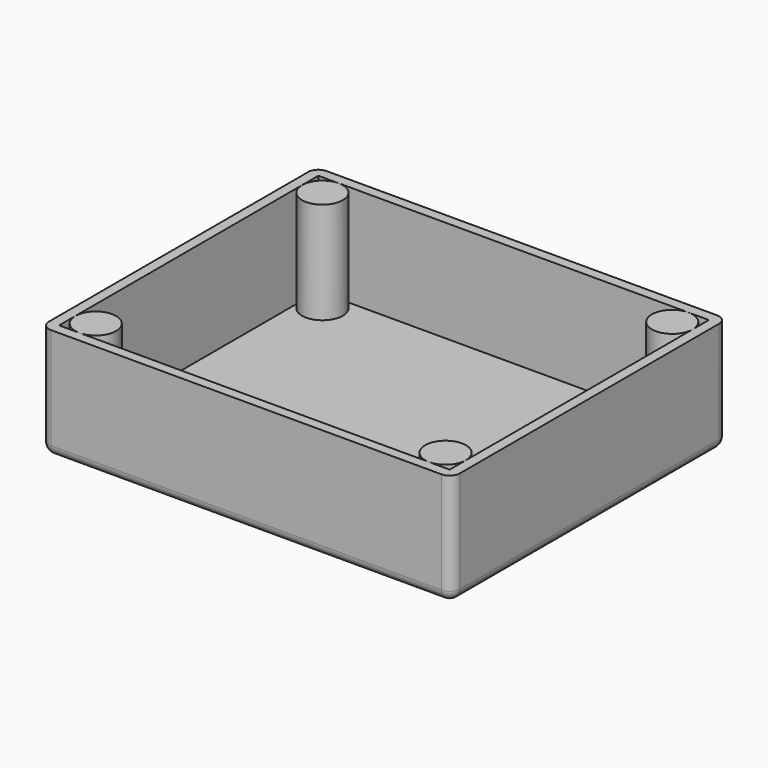
from build123d import *

# Parameters (mm, degrees)
SKETCH_W     = 38.36735
SKETCH_H     = 31.836736
PAD_DEPTH    = 10
THICKNESS_T  = 1
SKETCH001_R  = 2
PAD001_DEPTH = 10


with BuildPart() as part:
    # Sketch → Pad (new body)
    with BuildSketch(Plane.XY):
        with Locations((-0.408164, 1.632655)):
            Rectangle(SKETCH_W, SKETCH_H)
    extrude(amount=PAD_DEPTH)

    # Thickness
    thickness_openings = [part.faces().sort_by_distance(p)[0] for p in [
        (-0.408164, 1.632655, 10),
    ]]
    offset(amount=THICKNESS_T, openings=thickness_openings)

    # Sketch001 (on Face5 of Thickness) → Pad001 (join)
    with BuildSketch(Plane.XY):
        with Locations((-17.591839, 15.551023)):
            Circle(SKETCH001_R)
        with Locations((16.775511, 15.551023)):
            Circle(SKETCH001_R)
        with Locations((16.775511, -12.285713)):
            Circle(SKETCH001_R)
        with Locations((-17.591839, -12.285713)):
            Circle(SKETCH001_R)
    extrude(amount=PAD001_DEPTH)


solid = part.part
